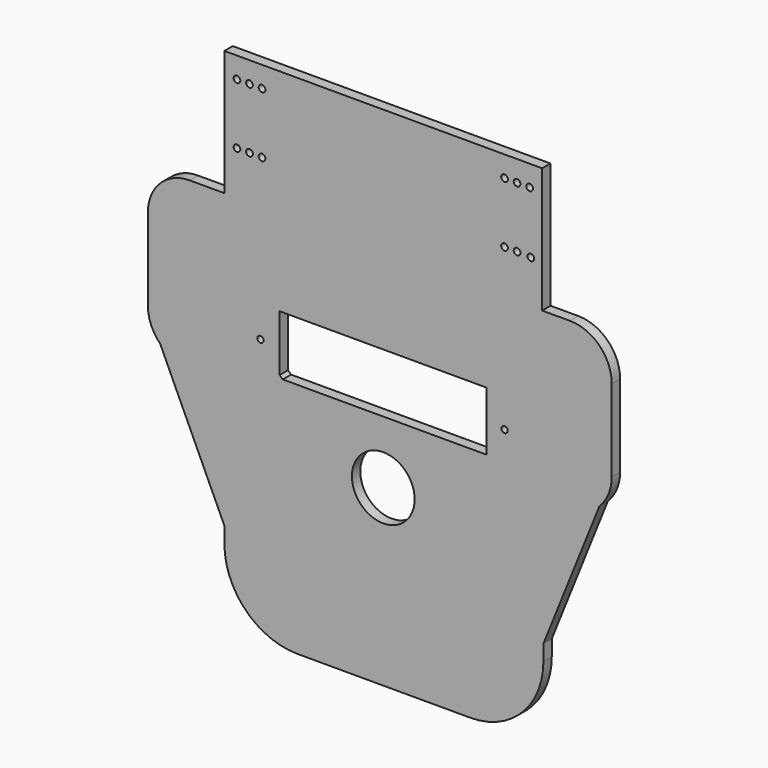
from build123d import *

# Parameters (mm, degrees)
F0_R     = 15
F0_R_2   = 1.6
F0_R_3   = 1.5
F1_DEPTH = 5


with BuildPart() as f1:
    # F0 (on Front) → F1 (new body)
    with BuildSketch(Plane.XZ):
        Polygon((64.7195210904, 93.4166697624), (-87.2804789096, 93.4166697624), (-87.2804789096, 33.5035783798), (-87.2804789096, -45.7278266549), (-87.2804789096, -52.8488606215), (-87.2804789096, -106.5833302376), (-7.389572449, -106.5833302376), (64.7195210904, -106.5833302376), (64.7195210904, -45.7278266549), (64.7195210904, 33.5035783798), align=None)
        with Locations((-11.2804789096, -65.8511285484)):
            Circle(F0_R, mode=Mode.SUBTRACT)
        with Locations((-81.2804789096, 54.4166697624)):
            Circle(F0_R_2, mode=Mode.SUBTRACT)
        with Locations((-75.2804789096, 54.4166697624)):
            Circle(F0_R_2, mode=Mode.SUBTRACT)
        with Locations((-69.2804789096, 54.4166697624)):
            Circle(F0_R_2, mode=Mode.SUBTRACT)
        with Locations((-81.2804789096, 83.4166697624)):
            Circle(F0_R_2, mode=Mode.SUBTRACT)
        with Locations((-75.2804789096, 83.4166697624)):
            Circle(F0_R_2, mode=Mode.SUBTRACT)
        with Locations((-69.2804789096, 83.4166697624)):
            Circle(F0_R_2, mode=Mode.SUBTRACT)
        Polygon((38.1417157483, -35.8511285484), (-59.3496093207, -35.8511285484), (-60.8582842517, -34.4954549566), (-74.2259500077, -22.4834627924), (-60.8582842517, -7.6071221054), (38.1417157483, -7.6071221054), (53.0180564353, -20.9747878614), (39.6503906793, -35.8511285484), align=None, mode=Mode.SUBTRACT)
        with Locations((46.7195210904, 54.4166697624)):
            Circle(F0_R_2, mode=Mode.SUBTRACT)
        with Locations((52.7195210904, 54.4166697624)):
            Circle(F0_R_2, mode=Mode.SUBTRACT)
        with Locations((59.2705830932, 54.1488714516)):
            Circle(F0_R_2, mode=Mode.SUBTRACT)
        with Locations((46.7195210904, 83.4166697624)):
            Circle(F0_R_2, mode=Mode.SUBTRACT)
        with Locations((52.7195210904, 83.4166697624)):
            Circle(F0_R_2, mode=Mode.SUBTRACT)
        with Locations((58.7195210904, 83.4166697624)):
            Circle(F0_R_2, mode=Mode.SUBTRACT)
        with BuildLine():
            Line((65.3113350272, -106.5833302376), (64.7195210904, -106.5833302376))
            Line((64.7195210904, -106.5833302376), (-7.389572449, -106.5833302376))
            Line((-7.389572449, -106.5833302376), (-87.2804789096, -106.5833302376))
            Line((-87.2804789096, -106.5833302376), (-87.2804789096, -114.1560935974))
            ThreePointArc((-87.2804789096, -114.1560935974), (-77.0292162511, -138.9048309389), (-52.2804789096, -149.1560935974))
            Line((-52.2804789096, -149.1560935974), (30.3113350272, -149.1560935974))
            ThreePointArc((30.3113350272, -149.1560935974), (55.0600723687, -138.9048309389), (65.3113350272, -114.1560935974))
            Line((65.3113350272, -114.1560935974), (65.3113350272, -106.5833302376))
        make_face()
        with BuildLine():
            Line((-87.2804789096, -45.7278266549), (-87.2804789096, 33.5035783798))
            Line((-87.2804789096, 33.5035783798), (-103.8824948668, 33.5035783798))
            ThreePointArc((-103.8824948668, 33.5035783798), (-118.0246304906, 27.6457140035), (-123.8824948668, 13.5035783798))
            Line((-123.8824948668, 13.5035783798), (-123.8824948668, -25.7278266549))
            ThreePointArc((-123.8824948668, -25.7278266549), (-122.3600855171, -33.3814953022), (-118.0246304906, -39.8699622786))
            ThreePointArc((-118.0246304906, -39.8699622786), (-111.5361635141, -44.2054173051), (-103.8824948668, -45.7278266549))
            Line((-103.8824948668, -45.7278266549), (-87.2804789096, -45.7278266549))
        make_face()
        with BuildLine():
            Line((78.007813096, 33.5035783798), (64.7195210904, 33.5035783798))
            Line((64.7195210904, 33.5035783798), (64.7195210904, -45.7278266549))
            Line((64.7195210904, -45.7278266549), (78.007813096, -45.7278266549))
            ThreePointArc((78.007813096, -45.7278266549), (85.6614817433, -44.2054173051), (92.1499487198, -39.8699622786))
            ThreePointArc((92.1499487198, -39.8699622786), (96.4854037463, -33.3814953022), (98.007813096, -25.7278266549))
            Line((98.007813096, -25.7278266549), (98.007813096, 13.5035783798))
            ThreePointArc((98.007813096, 13.5035783798), (92.1499487198, 27.6457140035), (78.007813096, 33.5035783798))
        make_face()
        with BuildLine():
            Line((-87.2804789096, -52.8488606215), (-87.2804789096, -45.7278266549))
            Line((-87.2804789096, -45.7278266549), (-103.8824948668, -45.7278266549))
            ThreePointArc((-103.8824948668, -45.7278266549), (-111.5361635141, -44.2054173051), (-118.0246304906, -39.8699622786))
            Line((-118.0246304906, -39.8699622786), (-87.2804789096, -106.5833302376))
            Line((-87.2804789096, -106.5833302376), (-87.2804789096, -52.8488606215))
        make_face()
        with BuildLine():
            Line((78.007813096, -45.7278266549), (64.7195210904, -45.7278266549))
            Line((64.7195210904, -45.7278266549), (64.7195210904, -106.5833302376))
            Line((64.7195210904, -106.5833302376), (65.3113350272, -106.5833302376))
            Line((65.3113350272, -106.5833302376), (92.1499487198, -39.8699622786))
            ThreePointArc((92.1499487198, -39.8699622786), (85.6614817433, -44.2054173051), (78.007813096, -45.7278266549))
        make_face()
        Polygon((38.1417157483, -7.6071221054), (38.1417157483, -35.8511285484), (39.6503906793, -35.8511285484), (53.0180564353, -20.9747878614), align=None)
        with Locations((46.7353351414, -22.4566459656)):
            Circle(F0_R_3, mode=Mode.SUBTRACT)
        Polygon((-74.2259500077, -22.4834627924), (-60.8582842517, -34.4954549566), (-60.8582842517, -7.6071221054), align=None)
        with Locations((-70.0136050582, -22.4566459656)):
            Circle(F0_R_3, mode=Mode.SUBTRACT)
    extrude(amount=F1_DEPTH)


solid = f1.part
